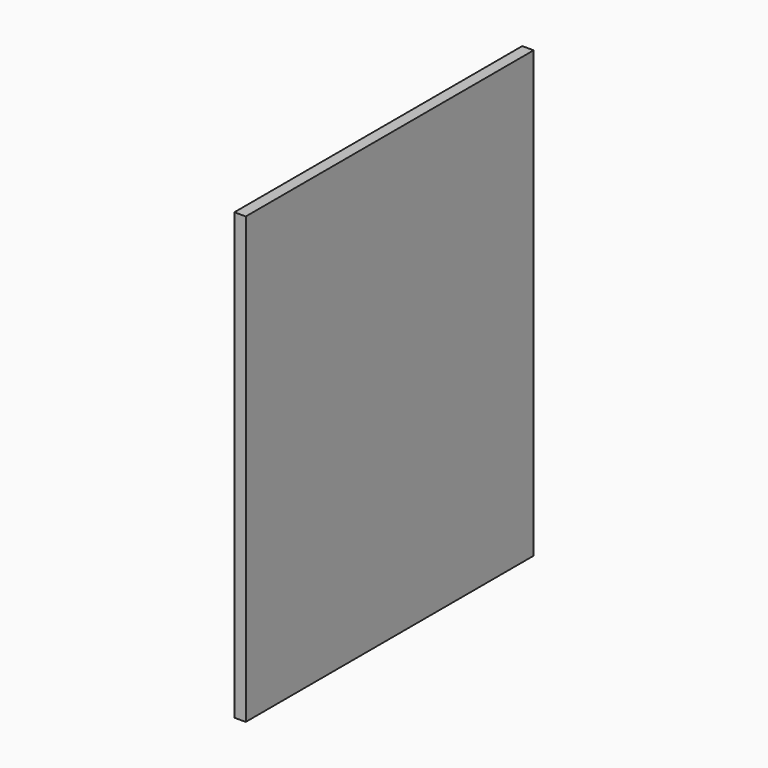
from build123d import *

# Parameters (mm, degrees)
SKETCH002_W  = 600
SKETCH002_H  = 742
PAD002_DEPTH = 19


with BuildPart() as part:
    # Sketch002 → Pad002 (new body)
    with BuildSketch(Plane.YZ):
        Rectangle(SKETCH002_W, SKETCH002_H)
    extrude(amount=PAD002_DEPTH)


solid = part.part
